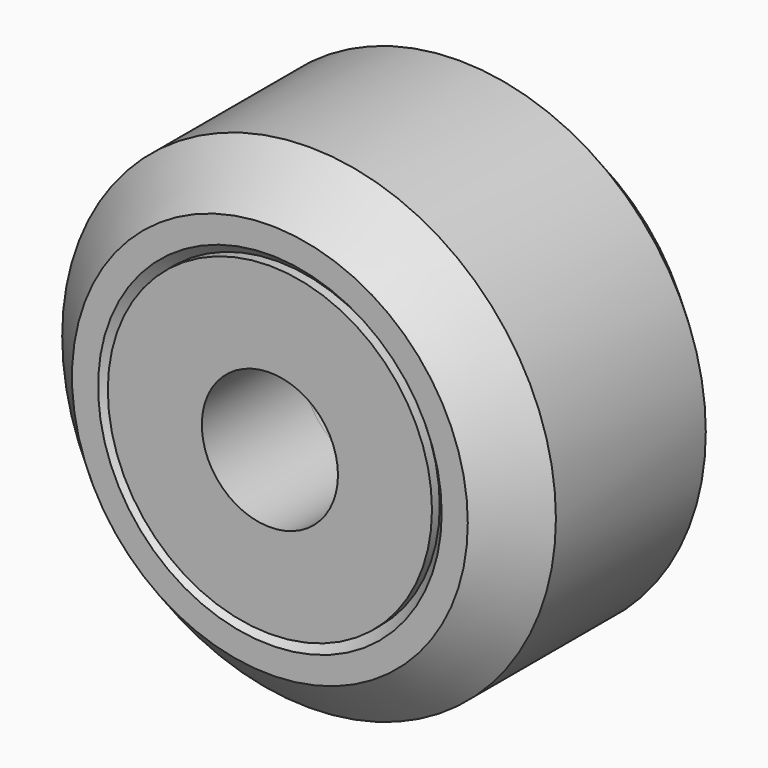
from build123d import *

# Parameters (mm, degrees)
F0_R          = 7.615
F0_R_2        = 5
F1_DEPTH      = 4.4
F1_DEPTH_BACK = 4.4
F0_R_3        = 4.32
F2_DEPTH      = 0.5
F2_DEPTH_BACK = 0.5
F3_SIZE       = 1.51
F4_SIZE       = 0.3
F5_START      = 0.5
F0_R_4        = 2.1
F5_DEPTH      = 3.9
F6_START      = -0.5
F6_DEPTH      = 3.9
F7_DEPTH      = 0.5
F7_DEPTH_BACK = 0.5


with BuildPart() as f1:
    # F0 (on Front) → F1 (new body, two sides)
    with BuildSketch(Plane.XZ) as f1_sk:
        Circle(F0_R)
        Circle(F0_R_2, mode=Mode.SUBTRACT)
    extrude(amount=F1_DEPTH)
    extrude(f1_sk.sketch, amount=-F1_DEPTH_BACK)

    # F0 (on Front) → F2 (join, two sides)
    with BuildSketch(Plane.XZ) as f2_sk:
        Circle(F0_R_2)
        Circle(F0_R_3, mode=Mode.SUBTRACT)
    extrude(amount=F2_DEPTH)
    extrude(f2_sk.sketch, amount=-F2_DEPTH_BACK)

    # F3
    f3_edges = [f1.edges().sort_by_distance(p)[0] for p in [
        (-7.615, 4.4, 0),
        (-7.615, -4.4, 0),
    ]]
    chamfer(f3_edges, length=F3_SIZE)

    # F4
    f4_edges = [f1.edges().sort_by_distance(p)[0] for p in [
        (-5, -4.4, 0),
        (-5, 4.4, 0),
    ]]
    chamfer(f4_edges, length=F4_SIZE)


with BuildPart() as f5:
    # F0 (on Front) → F5 (new body)
    with BuildSketch(Plane.XZ.offset(F5_START)):
        Circle(F0_R_2)
        Circle(F0_R_3, mode=Mode.SUBTRACT)
        Circle(F0_R_3)
        Circle(F0_R_4, mode=Mode.SUBTRACT)
    extrude(amount=F5_DEPTH)


with BuildPart() as f6:
    # F0 (on Front) → F6 (new body)
    with BuildSketch(Plane.XZ.offset(F6_START)):
        Circle(F0_R_2)
        Circle(F0_R_3, mode=Mode.SUBTRACT)
        Circle(F0_R_3)
        Circle(F0_R_4, mode=Mode.SUBTRACT)
    extrude(amount=-F6_DEPTH)


with BuildPart() as f7:
    # F0 (on Front) → F7 (new body, two sides)
    with BuildSketch(Plane.XZ) as f7_sk:
        Circle(F0_R_3)
        Circle(F0_R_4, mode=Mode.SUBTRACT)
    extrude(amount=F7_DEPTH)
    extrude(f7_sk.sketch, amount=-F7_DEPTH_BACK)


solid = Compound([f1.part, f5.part, f6.part, f7.part])
